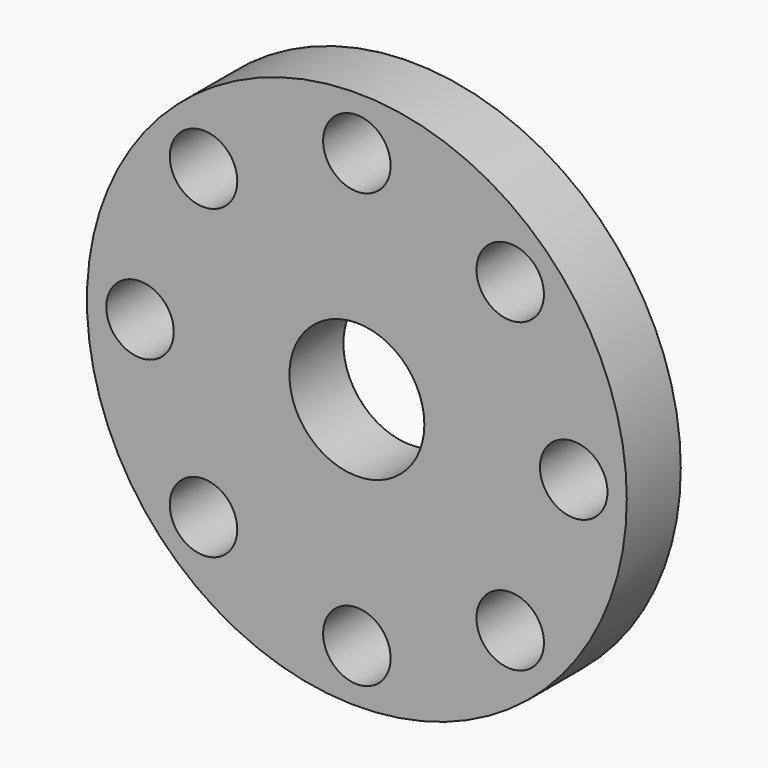
from build123d import *

# Parameters (mm, degrees)
F0_R     = 76.2
F0_R_2   = 9.525
F1_DEPTH = 19.05
F2_R     = 19.05
F3_DEPTH = 25.4


with BuildPart() as f1:
    # F0 (on Front) → F1 (new body)
    with BuildSketch(Plane.XZ):
        Circle(F0_R)
        with Locations((-43.284974, -43.284974)):
            Circle(F0_R_2, mode=Mode.SUBTRACT)
        with Locations((0, -61.214197)):
            Circle(F0_R_2, mode=Mode.SUBTRACT)
        with Locations((43.284974, -43.284974)):
            Circle(F0_R_2, mode=Mode.SUBTRACT)
        with Locations((-61.214197, 0)):
            Circle(F0_R_2, mode=Mode.SUBTRACT)
        with Locations((-43.284974, 43.284974)):
            Circle(F0_R_2, mode=Mode.SUBTRACT)
        with Locations((61.214197, 0)):
            Circle(F0_R_2, mode=Mode.SUBTRACT)
        with Locations((0, 61.214197)):
            Circle(F0_R_2, mode=Mode.SUBTRACT)
        with Locations((43.284974, 43.284974)):
            Circle(F0_R_2, mode=Mode.SUBTRACT)
    extrude(amount=F1_DEPTH)

    # F2 (on Front) → F3 (cut)
    with BuildSketch(Plane.XZ):
        Circle(F2_R)
    extrude(amount=F3_DEPTH, mode=Mode.SUBTRACT)


solid = f1.part
